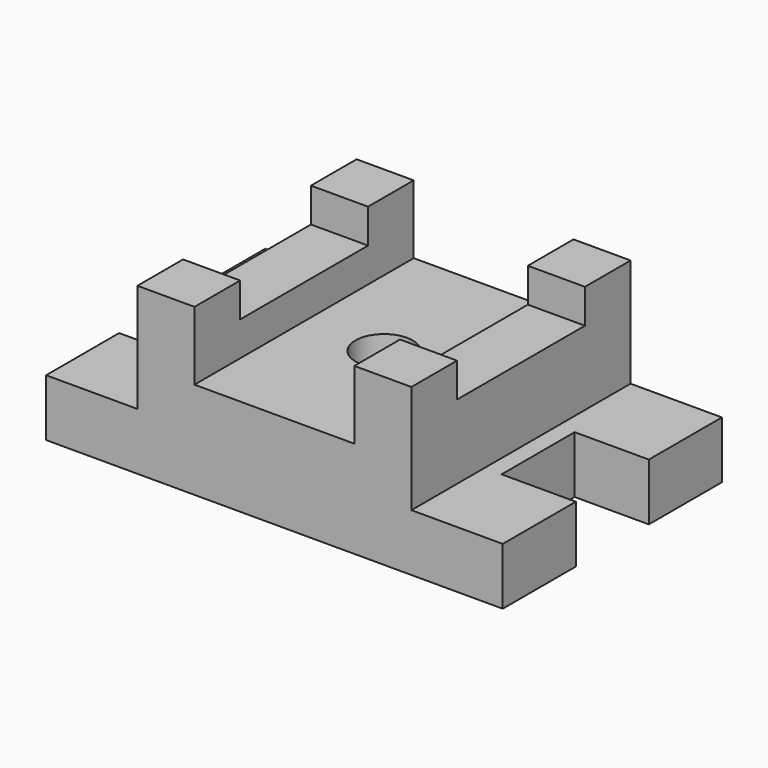
from build123d import *

# Parameters (mm, degrees)
F1_DEPTH = 31.75
F0_W     = 31.75
F0_H     = 31.75
F2_DEPTH = 92.075
F0_H_2   = 88.9
F3_DEPTH = 73.025
F0_R     = 15.875
F4_DEPTH = 53.975


with BuildPart() as f1:
    # F0 (on Top) → F1 (new body)
    with BuildSketch(Plane.XY):
        Polygon((-127, -76.2), (-76.2, -76.2), (-76.2, -44.45), (-76.2, 44.45), (-76.2, 76.2), (-127, 76.2), (-127, 25.4), (-85.725, 25.4), (-85.725, -25.4), (-127, -25.4), align=None)
        Polygon((76.2, -76.2), (127, -76.2), (127, -25.4), (85.725, -25.4), (85.725, 25.4), (127, 25.4), (127, 76.2), (76.2, 76.2), (76.2, 44.45), (76.2, -44.45), align=None)
    extrude(amount=F1_DEPTH)

    # F0 (on Top) → F2 (join)
    with BuildSketch(Plane.XY):
        with Locations((-60.325, 60.325)):
            Rectangle(F0_W, F0_H)
        with Locations((-60.325, -60.325)):
            Rectangle(F0_W, F0_H)
        with Locations((60.325, -60.325)):
            Rectangle(F0_W, F0_H)
        with Locations((60.325, 60.325)):
            Rectangle(F0_W, F0_H)
    extrude(amount=F2_DEPTH)

    # F0 (on Top) → F3 (join)
    with BuildSketch(Plane.XY):
        with Locations((-60.325, 0)):
            Rectangle(F0_W, F0_H_2)
        with Locations((60.325, 0)):
            Rectangle(F0_W, F0_H_2)
    extrude(amount=F3_DEPTH)

    # F0 (on Top) → F4 (join)
    with BuildSketch(Plane.XY):
        Polygon((-44.45, -76.2), (44.45, -76.2), (44.45, -44.45), (44.45, 44.45), (44.45, 76.2), (-44.45, 76.2), (-44.45, 44.45), (-44.45, -44.45), align=None)
        Circle(F0_R, mode=Mode.SUBTRACT)
    extrude(amount=F4_DEPTH)


solid = f1.part
